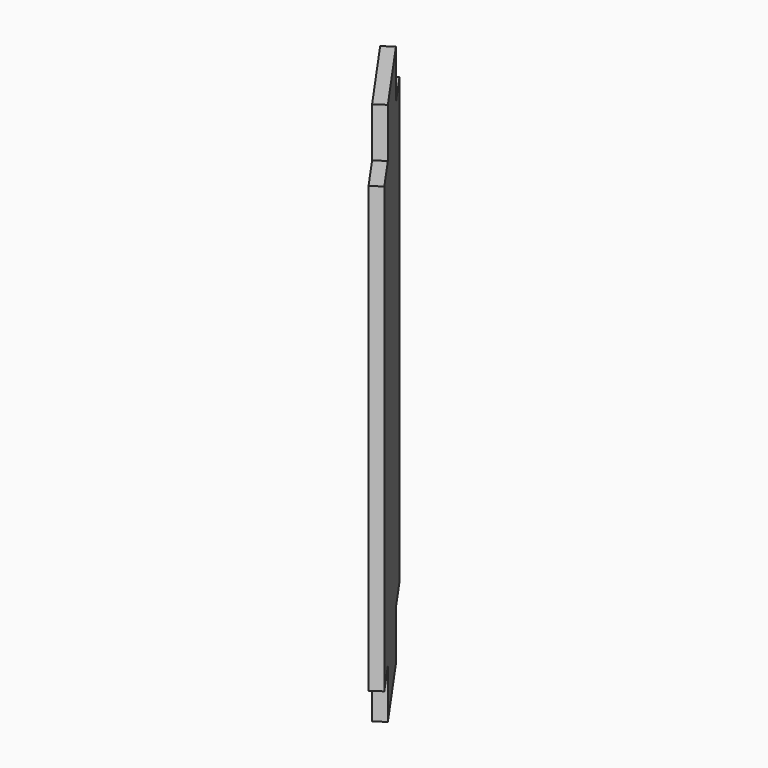
from build123d import *

# Parameters (mm, degrees)
PAD008_DEPTH               = 22
POCKET008_DEPTH            = 4
BODY004022_PLACEMENT_ANGLE = 180


with BuildPart() as part:
    # Sketch014 → Pad008 (new body)
    with BuildSketch(Plane.XY):
        Polygon((9.2084513411, 14.8813448283), (10.0276033854, 15.4549212646), (18.6312499306, 3.1676406003), (17.8120978864, 2.594064164), align=None)
    pad008 = extrude(amount=-PAD008_DEPTH)

    # Mirrored: Pad008 across face of Pad008
    add(pad008.mirror(Plane(origin=(13.9198506359, 9.0244927143, -22), x_dir=(1, 0, 0), z_dir=(0, 0, -1))))

    # Sketch027 → Pocket008 (cut)
    with BuildSketch(Plane.XY):
        Polygon((9.2084513411, 14.8813448283), (10.0276033854, 15.4549212646), (12.0351209126, 12.5878891096), (11.2159688683, 12.0143126733), align=None)
        Polygon((18.6312499306, 3.1676406003), (17.8120978864, 2.594064164), (15.8045803591, 5.461096319), (16.6237324034, 6.0346727553), align=None)
    pocket008 = extrude(amount=-POCKET008_DEPTH, mode=Mode.SUBTRACT)

    # Mirrored001: Pocket008 across face of Pad008
    add(pocket008.mirror(Plane(origin=(13.9198506359, 9.0244927143, -22), x_dir=(1, 0, 0), z_dir=(0, 0, -1))), mode=Mode.SUBTRACT)


with BuildPart() as part_1:
    # Body004022 placement: moved
    add(part.part.rotate(Axis((0, 0, 0), (0, 0, 1)), BODY004022_PLACEMENT_ANGLE))


solid = part_1.part
